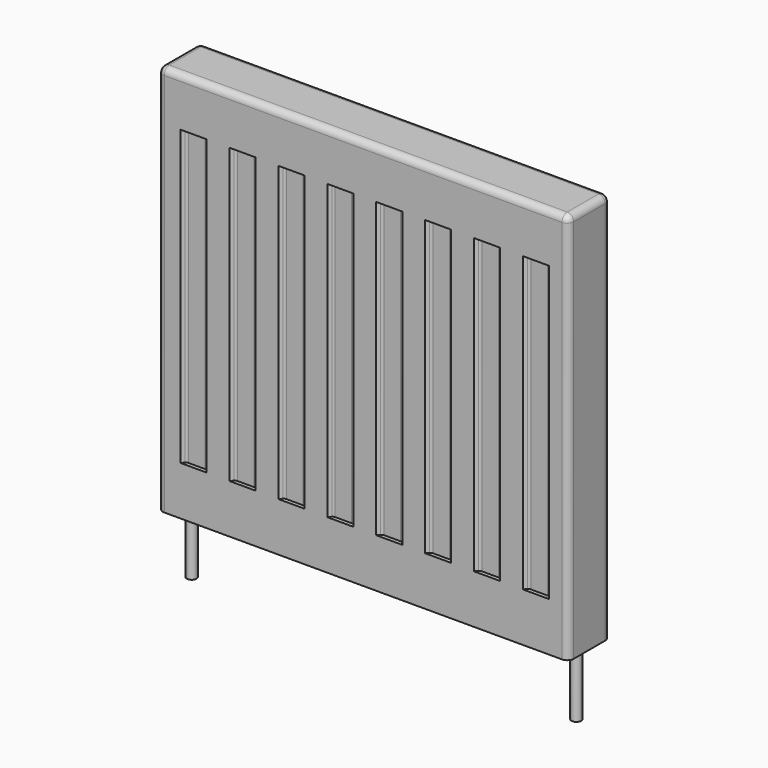
from build123d import *

# Parameters (mm, degrees)
F0_W     = 630
F0_H     = 80
F1_DEPTH = 300
F2_R     = 7.5
F3_DEPTH = 100
F5_DEPTH = 225
F6_R     = 10


with BuildPart() as f1:
    # F0 (on Top) → F1 (new body, symmetric)
    with BuildSketch(Plane.XY):
        with Locations((-30.66069, -58.683639)):
            Rectangle(F0_W, F0_H)
    extrude(amount=F1_DEPTH, both=True)

    # F2 (on face) → F3 (join)
    with BuildSketch(Plane(origin=(0, 0, -300), x_dir=(1, 0, 0), z_dir=(0, 0, -1))):
        with Locations((264.33931, 58.683639)):
            Circle(F2_R)
        with Locations((-325.66069, 58.683639)):
            Circle(F2_R)
    extrude(amount=F3_DEPTH)

    # F4 (on Top) → F5 (cut, symmetric)
    with BuildSketch(Plane.XY):
        with BuildLine():
            Line((-270.66069, -18.683639), (-310.66069, -18.683639))
            Line((-310.66069, -18.683639), (-307.124776, -22.897577))
            ThreePointArc((-307.124776, -22.897577), (-305.407645, -24.215178), (-303.294554, -24.683639))
            Line((-303.294554, -24.683639), (-278.026826, -24.683639))
            ThreePointArc((-278.026826, -24.683639), (-275.913735, -24.215178), (-274.196604, -22.897577))
            Line((-274.196604, -22.897577), (-270.66069, -18.683639))
        make_face()
        with BuildLine():
            Line((-195.66069, -18.683639), (-235.66069, -18.683639))
            Line((-235.66069, -18.683639), (-232.124776, -22.897577))
            ThreePointArc((-232.124776, -22.897577), (-230.407645, -24.215178), (-228.294554, -24.683639))
            Line((-228.294554, -24.683639), (-203.026826, -24.683639))
            ThreePointArc((-203.026826, -24.683639), (-200.913735, -24.215178), (-199.196604, -22.897577))
            Line((-199.196604, -22.897577), (-195.66069, -18.683639))
        make_face()
        with BuildLine():
            Line((-120.66069, -18.683639), (-160.66069, -18.683639))
            Line((-160.66069, -18.683639), (-157.124776, -22.897577))
            ThreePointArc((-157.124776, -22.897577), (-155.407645, -24.215178), (-153.294554, -24.683639))
            Line((-153.294554, -24.683639), (-128.026826, -24.683639))
            ThreePointArc((-128.026826, -24.683639), (-125.913735, -24.215178), (-124.196604, -22.897577))
            Line((-124.196604, -22.897577), (-120.66069, -18.683639))
        make_face()
        with BuildLine():
            Line((-45.66069, -18.683639), (-85.66069, -18.683639))
            Line((-85.66069, -18.683639), (-82.124776, -22.897577))
            ThreePointArc((-82.124776, -22.897577), (-80.407645, -24.215178), (-78.294554, -24.683639))
            Line((-78.294554, -24.683639), (-53.026826, -24.683639))
            ThreePointArc((-53.026826, -24.683639), (-50.913735, -24.215178), (-49.196604, -22.897577))
            Line((-49.196604, -22.897577), (-45.66069, -18.683639))
        make_face()
        with BuildLine():
            Line((29.33931, -18.683639), (-10.66069, -18.683639))
            Line((-10.66069, -18.683639), (-7.124776, -22.897577))
            ThreePointArc((-7.124776, -22.897577), (-5.407645, -24.215178), (-3.294554, -24.683639))
            Line((-3.294554, -24.683639), (21.973174, -24.683639))
            ThreePointArc((21.973174, -24.683639), (24.086265, -24.215178), (25.803396, -22.897577))
            Line((25.803396, -22.897577), (29.33931, -18.683639))
        make_face()
        with BuildLine():
            Line((104.33931, -18.683639), (64.33931, -18.683639))
            Line((64.33931, -18.683639), (67.875224, -22.897577))
            ThreePointArc((67.875224, -22.897577), (69.592355, -24.215178), (71.705446, -24.683639))
            Line((71.705446, -24.683639), (96.973174, -24.683639))
            ThreePointArc((96.973174, -24.683639), (99.086265, -24.215178), (100.803396, -22.897577))
            Line((100.803396, -22.897577), (104.33931, -18.683639))
        make_face()
        with BuildLine():
            Line((179.33931, -18.683639), (139.33931, -18.683639))
            Line((139.33931, -18.683639), (142.875224, -22.897577))
            ThreePointArc((142.875224, -22.897577), (144.592355, -24.215178), (146.705446, -24.683639))
            Line((146.705446, -24.683639), (171.973174, -24.683639))
            ThreePointArc((171.973174, -24.683639), (174.086265, -24.215178), (175.803396, -22.897577))
            Line((175.803396, -22.897577), (179.33931, -18.683639))
        make_face()
        with BuildLine():
            Line((254.33931, -18.683639), (214.33931, -18.683639))
            Line((214.33931, -18.683639), (217.875224, -22.897577))
            ThreePointArc((217.875224, -22.897577), (219.592355, -24.215178), (221.705446, -24.683639))
            Line((221.705446, -24.683639), (246.973174, -24.683639))
            ThreePointArc((246.973174, -24.683639), (249.086265, -24.215178), (250.803396, -22.897577))
            Line((250.803396, -22.897577), (254.33931, -18.683639))
        make_face()
        with BuildLine():
            ThreePointArc((-303.294554, -92.683639), (-305.407645, -93.1521), (-307.124776, -94.469701))
            Line((-307.124776, -94.469701), (-310.66069, -98.683639))
            Line((-310.66069, -98.683639), (-270.66069, -98.683639))
            Line((-270.66069, -98.683639), (-274.196604, -94.469701))
            ThreePointArc((-274.196604, -94.469701), (-275.913735, -93.1521), (-278.026826, -92.683639))
            Line((-278.026826, -92.683639), (-303.294554, -92.683639))
        make_face()
        with BuildLine():
            Line((-232.124776, -94.469701), (-235.66069, -98.683639))
            Line((-235.66069, -98.683639), (-195.66069, -98.683639))
            Line((-195.66069, -98.683639), (-199.196604, -94.469701))
            ThreePointArc((-199.196604, -94.469701), (-200.913735, -93.1521), (-203.026826, -92.683639))
            Line((-203.026826, -92.683639), (-228.294554, -92.683639))
            ThreePointArc((-228.294554, -92.683639), (-230.407645, -93.1521), (-232.124776, -94.469701))
        make_face()
        with BuildLine():
            ThreePointArc((250.803396, -94.469701), (249.086265, -93.1521), (246.973174, -92.683639))
            Line((246.973174, -92.683639), (221.705446, -92.683639))
            ThreePointArc((221.705446, -92.683639), (219.592355, -93.1521), (217.875224, -94.469701))
            Line((217.875224, -94.469701), (214.33931, -98.683639))
            Line((214.33931, -98.683639), (254.33931, -98.683639))
            Line((254.33931, -98.683639), (250.803396, -94.469701))
        make_face()
        with BuildLine():
            Line((-82.124776, -94.469701), (-85.66069, -98.683639))
            Line((-85.66069, -98.683639), (-45.66069, -98.683639))
            Line((-45.66069, -98.683639), (-49.196604, -94.469701))
            ThreePointArc((-49.196604, -94.469701), (-50.913735, -93.1521), (-53.026826, -92.683639))
            Line((-53.026826, -92.683639), (-78.294554, -92.683639))
            ThreePointArc((-78.294554, -92.683639), (-80.407645, -93.1521), (-82.124776, -94.469701))
        make_face()
        with BuildLine():
            Line((-120.66069, -98.683639), (-124.196604, -94.469701))
            ThreePointArc((-124.196604, -94.469701), (-125.913735, -93.1521), (-128.026826, -92.683639))
            Line((-128.026826, -92.683639), (-153.294554, -92.683639))
            ThreePointArc((-153.294554, -92.683639), (-155.407645, -93.1521), (-157.124776, -94.469701))
            Line((-157.124776, -94.469701), (-160.66069, -98.683639))
            Line((-160.66069, -98.683639), (-120.66069, -98.683639))
        make_face()
        with BuildLine():
            Line((-7.124776, -94.469701), (-10.66069, -98.683639))
            Line((-10.66069, -98.683639), (29.33931, -98.683639))
            Line((29.33931, -98.683639), (25.803396, -94.469701))
            ThreePointArc((25.803396, -94.469701), (24.086265, -93.1521), (21.973174, -92.683639))
            Line((21.973174, -92.683639), (-3.294554, -92.683639))
            ThreePointArc((-3.294554, -92.683639), (-5.407645, -93.1521), (-7.124776, -94.469701))
        make_face()
        with BuildLine():
            Line((104.33931, -98.683639), (100.803396, -94.469701))
            ThreePointArc((100.803396, -94.469701), (99.086265, -93.1521), (96.973174, -92.683639))
            Line((96.973174, -92.683639), (71.705446, -92.683639))
            ThreePointArc((71.705446, -92.683639), (69.592355, -93.1521), (67.875224, -94.469701))
            Line((67.875224, -94.469701), (64.33931, -98.683639))
            Line((64.33931, -98.683639), (104.33931, -98.683639))
        make_face()
        with BuildLine():
            Line((142.875224, -94.469701), (139.33931, -98.683639))
            Line((139.33931, -98.683639), (179.33931, -98.683639))
            Line((179.33931, -98.683639), (175.803396, -94.469701))
            ThreePointArc((175.803396, -94.469701), (174.086265, -93.1521), (171.973174, -92.683639))
            Line((171.973174, -92.683639), (146.705446, -92.683639))
            ThreePointArc((146.705446, -92.683639), (144.592355, -93.1521), (142.875224, -94.469701))
        make_face()
    extrude(amount=F5_DEPTH, both=True, mode=Mode.SUBTRACT)

    # F6
    f6_edges = [f1.edges().sort_by_distance(p)[0] for p in [
        (-345.66069, -98.683639, 0),
        (-345.66069, -18.683639, 0),
        (284.33931, -98.683639, 0),
        (284.33931, -18.683639, 0),
        (-30.66069, -98.683639, 300),
        (-30.66069, -18.683639, 300),
        (284.33931, -58.683639, 300),
        (-345.66069, -58.683639, 300),
    ]]
    fillet(f6_edges, radius=F6_R)


solid = f1.part
